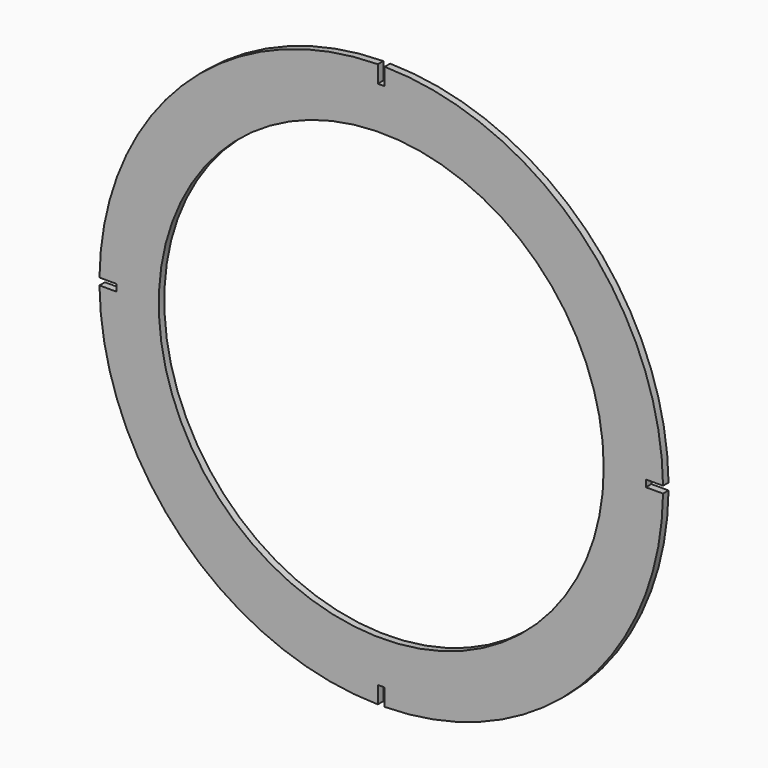
from build123d import *

# Parameters (mm, degrees)
F0_R     = 97.09501
F1_DEPTH = 3


with BuildPart() as f1:
    # F0 (on Front) → F1 (new body)
    with BuildSketch(Plane.XZ):
        with BuildLine():
            Line((-1.5, 115.487013), (-1.5, 122.977865))
            ThreePointArc((-1.5, 122.977865), (-86.964951, 86.964951), (-122.977865, 1.5))
            Line((-122.977865, 1.5), (-115.487013, 1.5))
            Line((-115.487013, 1.5), (-115.487013, -1.5))
            Line((-115.487013, -1.5), (-122.977865, -1.5))
            ThreePointArc((-122.977865, -1.5), (-86.964951, -86.964951), (-1.5, -122.977865))
            Line((-1.5, -122.977865), (-1.5, -115.487013))
            Line((-1.5, -115.487013), (1.5, -115.487013))
            Line((1.5, -115.487013), (1.5, -122.977865))
            ThreePointArc((1.5, -122.977865), (86.964951, -86.964951), (122.977865, -1.5))
            Line((122.977865, -1.5), (115.487013, -1.5))
            Line((115.487013, -1.5), (115.487013, 1.5))
            Line((115.487013, 1.5), (122.977865, 1.5))
            ThreePointArc((122.977865, 1.5), (86.964951, 86.964951), (1.5, 122.977865))
            Line((1.5, 122.977865), (1.5, 115.487013))
            Line((1.5, 115.487013), (-1.5, 115.487013))
        make_face()
        Circle(F0_R, mode=Mode.SUBTRACT)
    extrude(amount=F1_DEPTH)


solid = f1.part
